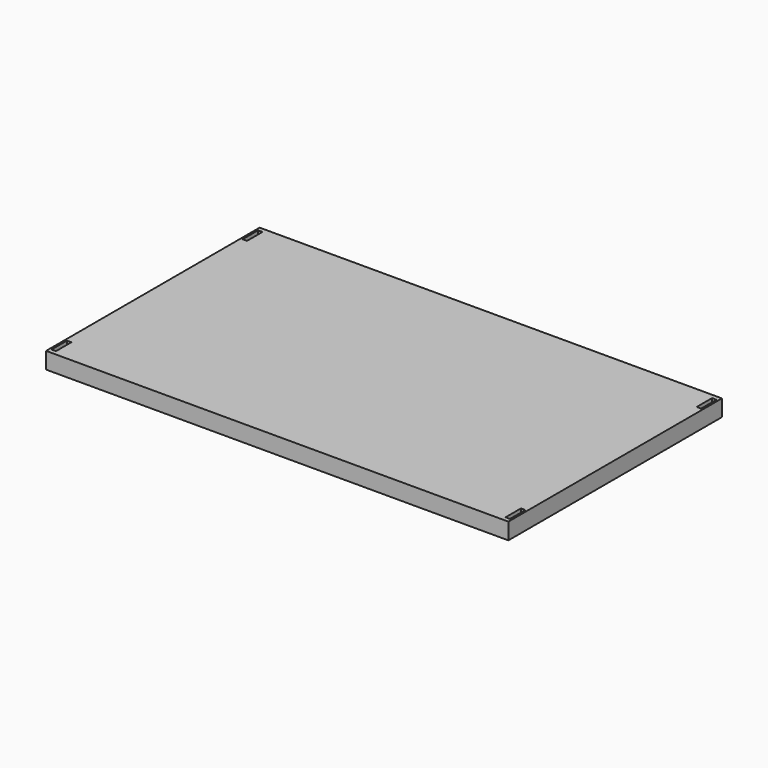
from build123d import *

# Parameters (mm, degrees)
F0_W     = 84
F0_H     = 48.5
F0_W_2   = 0.8
F0_H_2   = 3.5
F1_DEPTH = 3
F2_START = 1.5
F2_DEPTH = 1.5


with BuildPart() as f1:
    # F0 (on Top) → F1 (new body)
    with BuildSketch(Plane.XY):
        with Locations((-0.0453250408, 1.1309052184)):
            Rectangle(F0_W, F0_H)
        with Locations((-41.2953250408, -20.5690947816)):
            Rectangle(F0_W_2, F0_H_2, mode=Mode.SUBTRACT)
        with Locations((41.2046749592, -20.5690947816)):
            Rectangle(F0_W_2, F0_H_2, mode=Mode.SUBTRACT)
        with Locations((-41.2953250408, 22.8309052184)):
            Rectangle(F0_W_2, F0_H_2, mode=Mode.SUBTRACT)
        with Locations((41.2046749592, 22.8309052184)):
            Rectangle(F0_W_2, F0_H_2, mode=Mode.SUBTRACT)
        with Locations((41.2046749592, -20.5690947816)):
            Rectangle(F0_W_2, F0_H_2)
        with Locations((41.2046749592, 22.8309052184)):
            Rectangle(F0_W_2, F0_H_2)
        with Locations((-41.2953250408, -20.5690947816)):
            Rectangle(F0_W_2, F0_H_2)
        with Locations((-41.2953250408, 22.8309052184)):
            Rectangle(F0_W_2, F0_H_2)
    extrude(amount=F1_DEPTH)

    # F0 (on Top) → F2 (cut)
    with BuildSketch(Plane.XY.offset(F2_START)):
        with Locations((-41.2953250408, -20.5690947816)):
            Rectangle(F0_W_2, F0_H_2)
        with Locations((-41.2953250408, 22.8309052184)):
            Rectangle(F0_W_2, F0_H_2)
        with Locations((41.2046749592, -20.5690947816)):
            Rectangle(F0_W_2, F0_H_2)
        with Locations((41.2046749592, 22.8309052184)):
            Rectangle(F0_W_2, F0_H_2)
    extrude(amount=F2_DEPTH, mode=Mode.SUBTRACT)


solid = f1.part
